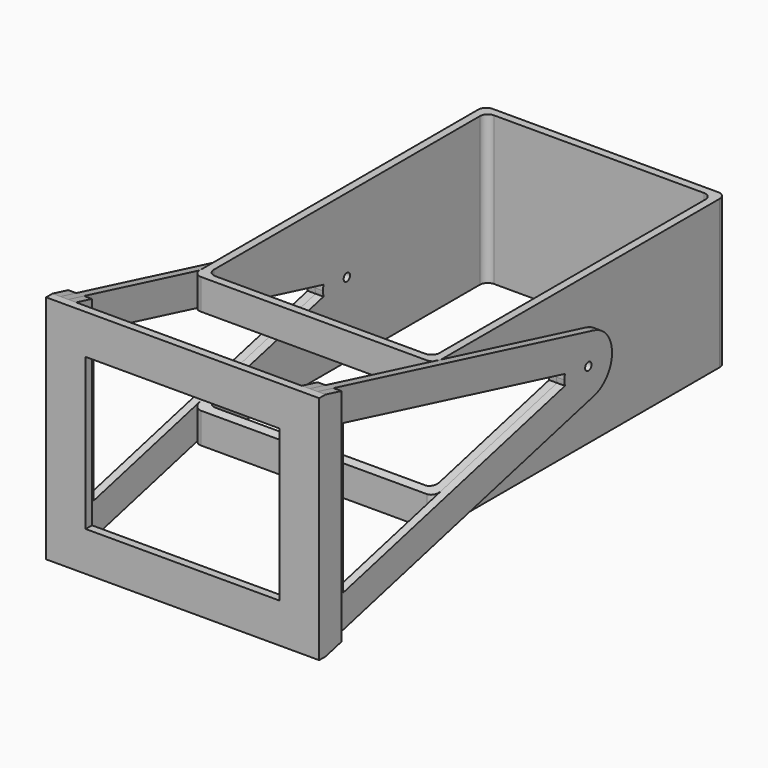
from build123d import *

# Parameters (mm, degrees)
F1_DEPTH      = 35
F1_DEPTH_BACK = 2.5
F2_R          = 1
F3_DEPTH      = 61.001
F5_R          = 1
F6_DEPTH      = 2
F8_R          = 1
F9_DEPTH      = 2
F10_W         = 2
F10_H         = 58.2758917019
F11_DEPTH     = 5
F10_W_2       = 57
F10_W_3       = 49
F10_H_2       = 38.2758917019
F12_DEPTH     = 2
F14_DEPTH     = 69.001
F16_DEPTH     = 67.001


with BuildPart() as f1:
    # F0 (on Top) → F1 (new body, two sides)
    with BuildSketch(Plane.XY) as f1_sk:
        with BuildLine():
            Line((-30.5, 44), (-30.5, 0))
            Line((-30.5, 0), (-30.5, -44))
            ThreePointArc((-30.5, -44), (-29.9142135624, -45.4142135624), (-28.5, -46))
            Line((-28.5, -46), (28.5, -46))
            ThreePointArc((28.5, -46), (29.9142135624, -45.4142135624), (30.5, -44))
            Line((30.5, -44), (30.5, 0))
            Line((30.5, 0), (30.5, 44))
            ThreePointArc((30.5, 44), (29.9142135624, 45.4142135624), (28.5, 46))
            Line((28.5, 46), (-28.5, 46))
            ThreePointArc((-28.5, 46), (-29.9142135624, 45.4142135624), (-30.5, 44))
        make_face()
        with BuildLine():
            Line((-28.5, -42), (-28.5, 0))
            Line((-28.5, 0), (-28.5, 42))
            ThreePointArc((-28.5, 42), (-27.9142135624, 43.4142135624), (-26.5, 44))
            Line((-26.5, 44), (26.5, 44))
            ThreePointArc((26.5, 44), (27.9142135624, 43.4142135624), (28.5, 42))
            Line((28.5, 42), (28.5, 0))
            Line((28.5, 0), (28.5, -42))
            ThreePointArc((28.5, -42), (27.9142135624, -43.4142135624), (26.5, -44))
            Line((26.5, -44), (10, -44))
            Line((10, -44), (9.5, -44))
            Line((9.5, -44), (-5.5, -44))
            Line((-5.5, -44), (-10, -44))
            Line((-10, -44), (-26.5, -44))
            ThreePointArc((-26.5, -44), (-27.9142135624, -43.4142135624), (-28.5, -42))
        make_face(mode=Mode.SUBTRACT)
    extrude(amount=F1_DEPTH)
    extrude(f1_sk.sketch, amount=-F1_DEPTH_BACK)

    # F2 (on face) → F3 (cut, through all)
    with BuildSketch(Plane(origin=(-30.5, 0, 0), x_dir=(0, -1, 0), z_dir=(-1, 0, 0))):
        with Locations((0, 16.25)):
            Circle(F2_R)
    extrude(amount=-F3_DEPTH, mode=Mode.SUBTRACT)


with BuildPart() as f6:
    # F5 (on offset) → F6 (new body)
    with BuildSketch(Plane(origin=(-30.5, 0, 0), x_dir=(0, -1, 0), z_dir=(-1, 0, 0))):
        Polygon((85.4823380096, 45.3879458509), (44, 35), (44, -2.5), (85.4823380096, -12.8879458509), align=None)
        with BuildLine():
            ThreePointArc((-1.8218828428, 23.5253517377), (4.6144273035, 22.1624496328), (7.5, 16.25))
            ThreePointArc((7.5, 16.25), (4.6144273035, 10.3375503672), (-1.8218828428, 8.9746482623))
            Line((-1.8218828428, 8.9746482623), (44, -2.5))
            Line((44, -2.5), (44, 35))
            Line((44, 35), (-1.8218828428, 23.5253517377))
        make_face()
        with BuildLine():
            ThreePointArc((-1.8218828428, 8.9746482623), (4.6144273035, 10.3375503672), (7.5, 16.25))
            ThreePointArc((7.5, 16.25), (4.6144273035, 22.1624496328), (-1.8218828428, 23.5253517377))
            ThreePointArc((-1.8218828428, 23.5253517377), (-7.5, 16.25), (-1.8218828428, 8.9746482623))
        make_face()
        with Locations((0, 16.25)):
            Circle(F5_R, mode=Mode.SUBTRACT)
    extrude(amount=F6_DEPTH)


with BuildPart() as f9:
    # F8 (on offset) → F9 (new body)
    with BuildSketch(Plane.YZ.offset(30.5)):
        with BuildLine():
            ThreePointArc((1.8218828428, 8.9746482623), (-7.5, 16.25), (1.8218828428, 23.5253517377))
            Line((1.8218828428, 23.5253517377), (-85.4823380096, 45.3879458509))
            Line((-85.4823380096, 45.3879458509), (-85.4823380096, -12.8879458509))
            Line((-85.4823380096, -12.8879458509), (1.8218828428, 8.9746482623))
        make_face()
        with BuildLine():
            ThreePointArc((7.5, 16.25), (5.9124496328, 20.8644273035), (1.8218828428, 23.5253517377))
            ThreePointArc((1.8218828428, 23.5253517377), (-7.5, 16.25), (1.8218828428, 8.9746482623))
            ThreePointArc((1.8218828428, 8.9746482623), (5.9124496328, 11.6355726965), (7.5, 16.25))
        make_face()
        with Locations((0, 16.25)):
            Circle(F8_R, mode=Mode.SUBTRACT)
    extrude(amount=F9_DEPTH)


with BuildPart() as f11:
    # F10 (on face) → F11 (new body)
    with BuildSketch(Plane.XZ.offset(85.4823380096)):
        with Locations((33.5, 16.25)):
            Rectangle(F10_W, F10_H)
        with Locations((29.5, 16.25)):
            Rectangle(F10_W, F10_H)
        with Locations((-29.5, 16.25)):
            Rectangle(F10_W, F10_H)
        with Locations((-33.5, 16.25)):
            Rectangle(F10_W, F10_H)
    extrude(amount=-F11_DEPTH)

    # F10 (on face) → F12 (join)
    with BuildSketch(Plane.XZ.offset(85.4823380096)):
        with Locations((33.5, 16.25)):
            Rectangle(F10_W, F10_H)
        with Locations((31.5, 16.25)):
            Rectangle(F10_W, F10_H)
        with Locations((0, 16.25)):
            Rectangle(F10_W_2, F10_H)
        with Locations((0, 16.25)):
            Rectangle(F10_W_3, F10_H_2, mode=Mode.SUBTRACT)
        with Locations((-29.5, 16.25)):
            Rectangle(F10_W, F10_H)
        with Locations((-31.5, 16.25)):
            Rectangle(F10_W, F10_H)
        with Locations((-33.5, 16.25)):
            Rectangle(F10_W, F10_H)
        with Locations((29.5, 16.25)):
            Rectangle(F10_W, F10_H)
    extrude(amount=F12_DEPTH)

    # F13 (on face) → F14 (cut, through all)
    with BuildSketch(Plane(origin=(-34.5, 0, 0), x_dir=(0, -1, 0), z_dir=(-1, 0, 0))):
        Polygon((85.4823380096, -12.8879458509), (80.4823380096, -11.6358532316), (80.4823380096, -12.8879458509), align=None)
        Polygon((80.4823380096, 45.3879458509), (80.4823380096, 44.1358532316), (85.4823380096, 45.3879458509), align=None)
    extrude(amount=-F14_DEPTH, mode=Mode.SUBTRACT)


with BuildPart() as f16_tool:
    # F15 (on face) → F16 (new body, through all)
    with BuildSketch(Plane(origin=(-32.5, 0, 0), x_dir=(0, -1, 0), z_dir=(-1, 0, 0))):
        with BuildLine():
            ThreePointArc((7.3806251417, 17.5828062565), (7.4700966715, 16.9190707874), (7.5, 16.25))
            ThreePointArc((7.5, 16.25), (7.4700966715, 15.5809292126), (7.3806251417, 14.9171937435))
            Line((7.3806251417, 14.9171937435), (77.4823380096, -2.6375737135))
            Line((77.4823380096, -2.6375737135), (77.4823380096, 35.1375737135))
            Line((77.4823380096, 35.1375737135), (7.3806251417, 17.5828062565))
        make_face()
    extrude(amount=-F16_DEPTH)


with BuildPart() as f1_1:
    add(f1.part)

    # F16: cut by f16_tool
    add(f16_tool.part, mode=Mode.SUBTRACT)


with BuildPart() as f6_1:
    add(f6.part)

    # F16: cut by f16_tool
    add(f16_tool.part, mode=Mode.SUBTRACT)


with BuildPart() as f9_1:
    add(f9.part)

    # F16: cut by f16_tool
    add(f16_tool.part, mode=Mode.SUBTRACT)


solid = Compound([f11.part, f1_1.part, f6_1.part, f9_1.part])
